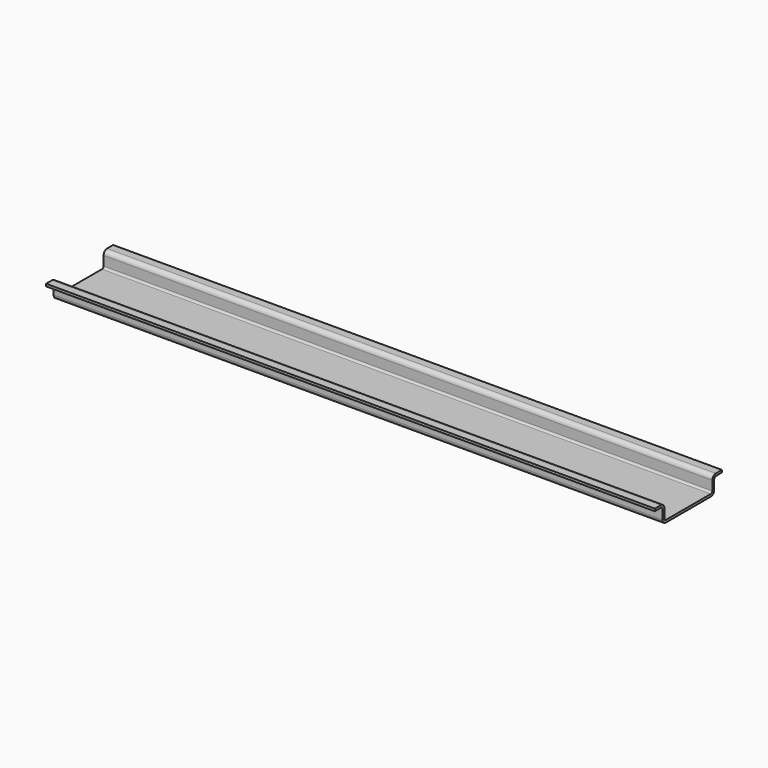
from build123d import *

# Parameters (mm, degrees)
F1_DEPTH = 127


with BuildPart() as f1:
    # F0 (on Right) → F1 (new body, symmetric)
    with BuildSketch(Plane.YZ):
        with BuildLine():
            Line((10.52122, 68.526768), (10.52122, 64.626769))
            ThreePointArc((10.52122, 64.626769), (10.286905, 64.061084), (9.72122, 63.826769))
            Line((9.72122, 63.826769), (-13.728614, 63.826769))
            ThreePointArc((-13.728614, 63.826769), (-14.294299, 64.061084), (-14.528614, 64.626769))
            Line((-14.528614, 64.626769), (-14.528614, 68.526768))
            ThreePointArc((-14.528614, 68.526768), (-15.055822, 69.79956), (-16.328614, 70.326768))
            Line((-16.328614, 70.326768), (-19.475637, 70.326768))
            Line((-19.475637, 70.326768), (-19.475637, 69.326768))
            Line((-19.475637, 69.326768), (-16.328614, 69.326768))
            ThreePointArc((-16.328614, 69.326768), (-15.762929, 69.092453), (-15.528614, 68.526768))
            Line((-15.528614, 68.526768), (-15.528614, 64.626769))
            ThreePointArc((-15.528614, 64.626769), (-15.001406, 63.353977), (-13.728614, 62.826769))
            Line((-13.728614, 62.826769), (9.72122, 62.826769))
            ThreePointArc((9.72122, 62.826769), (10.994012, 63.353977), (11.52122, 64.626769))
            Line((11.52122, 64.626769), (11.52122, 68.526768))
            ThreePointArc((11.52122, 68.526768), (11.755535, 69.092453), (12.32122, 69.326768))
            Line((12.32122, 69.326768), (15.524363, 69.326768))
            Line((15.524363, 69.326768), (15.524363, 70.326768))
            Line((15.524363, 70.326768), (12.32122, 70.326768))
            ThreePointArc((12.32122, 70.326768), (11.048428, 69.79956), (10.52122, 68.526768))
        make_face()
        with BuildLine():
            Line((10.52122, 68.526768), (10.52122, 64.626769))
            ThreePointArc((10.52122, 64.626769), (10.286905, 64.061084), (9.72122, 63.826769))
            Line((9.72122, 63.826769), (-13.728614, 63.826769))
            ThreePointArc((-13.728614, 63.826769), (-14.294299, 64.061084), (-14.528614, 64.626769))
            Line((-14.528614, 64.626769), (-14.528614, 68.526768))
            ThreePointArc((-14.528614, 68.526768), (-15.055822, 69.79956), (-16.328614, 70.326768))
            Line((-16.328614, 70.326768), (-19.475637, 70.326768))
            Line((-19.475637, 70.326768), (-19.475637, 69.326768))
            Line((-19.475637, 69.326768), (-16.328614, 69.326768))
            ThreePointArc((-16.328614, 69.326768), (-15.762929, 69.092453), (-15.528614, 68.526768))
            Line((-15.528614, 68.526768), (-15.528614, 64.626769))
            ThreePointArc((-15.528614, 64.626769), (-15.001406, 63.353977), (-13.728614, 62.826769))
            Line((-13.728614, 62.826769), (9.72122, 62.826769))
            ThreePointArc((9.72122, 62.826769), (10.994012, 63.353977), (11.52122, 64.626769))
            Line((11.52122, 64.626769), (11.52122, 68.526768))
            ThreePointArc((11.52122, 68.526768), (11.755535, 69.092453), (12.32122, 69.326768))
            Line((12.32122, 69.326768), (15.524363, 69.326768))
            Line((15.524363, 69.326768), (15.524363, 70.326768))
            Line((15.524363, 70.326768), (12.32122, 70.326768))
            ThreePointArc((12.32122, 70.326768), (11.048428, 69.79956), (10.52122, 68.526768))
        make_face()
    extrude(amount=F1_DEPTH, both=True)


solid = f1.part
